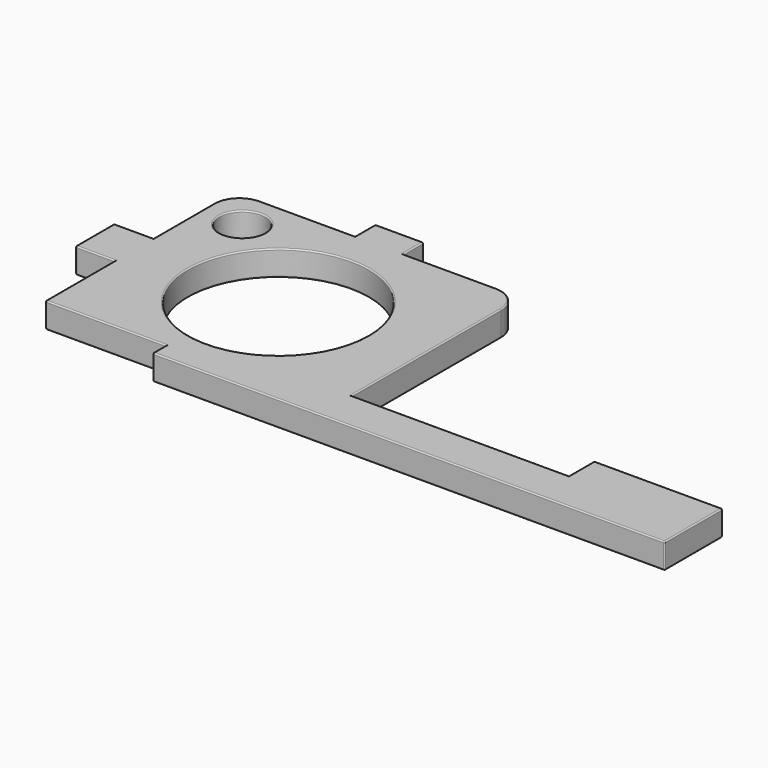
from build123d import *

# Parameters (mm, degrees)
F1_R     = 9.017
F1_R_2   = 2.286
F2_DEPTH = 2.54
F3_R     = 2.54
F4_R     = 0.127


with BuildPart() as f2:
    # F1 (on Top) → F2 (new body)
    with BuildSketch(Plane.XY):
        Polygon((16.002, 1.651), (16.002, 0), (67.183, 0), (67.183, 7.239), (54.356, 7.239), (54.356, 4.064), (32.639, 4.064), (32.639, 25.273), (20.828, 25.273), (20.828, 27.813), (16.002, 27.813), (16.002, 25.273), (3.937, 25.273), (3.937, 15.1638), (0, 15.1638), (0, 10.3378), (3.937, 10.3378), (3.937, 1.651), align=None)
        with Locations((18.288, 12.827)):
            Circle(F1_R, mode=Mode.SUBTRACT)
        with Locations((7.874, 21.336)):
            Circle(F1_R_2, mode=Mode.SUBTRACT)
    extrude(amount=F2_DEPTH)

    # F3
    f3_edges = [f2.edges().sort_by_distance(p)[0] for p in [
        (3.937, 25.273, 1.27),
        (32.639, 25.273, 1.27),
    ]]
    fillet(f3_edges, radius=F3_R)

    # F4
    f4_edges = [f2.edges().sort_by_distance(p)[0] for p in [
        (32.639, 13.3985, 2.54),
        (31.895051, 24.529051, 2.54),
        (43.4975, 4.064, 2.54),
        (25.4635, 25.273, 2.54),
        (54.356, 5.6515, 2.54),
        (20.828, 26.543, 2.54),
        (60.7695, 7.239, 2.54),
        (18.415, 27.813, 2.54),
        (67.183, 3.6195, 2.54),
        (16.002, 26.543, 2.54),
        (41.5925, 0, 2.54),
        (11.2395, 25.273, 2.54),
        (16.002, 0.8255, 2.54),
        (4.680949, 24.529051, 2.54),
        (9.9695, 1.651, 2.54),
        (3.937, 18.9484, 2.54),
        (3.937, 5.9944, 2.54),
        (1.9685, 15.1638, 2.54),
        (1.9685, 10.3378, 2.54),
        (0, 12.7508, 2.54),
        (9.271, 12.827, 2.54),
        (5.588, 21.336, 2.54),
        (32.639, 13.3985, 0),
        (31.895051, 24.529051, 0),
        (43.4975, 4.064, 0),
        (25.4635, 25.273, 0),
        (54.356, 5.6515, 0),
        (20.828, 26.543, 0),
        (60.7695, 7.239, 0),
        (18.415, 27.813, 0),
        (67.183, 3.6195, 0),
        (16.002, 26.543, 0),
        (41.5925, 0, 0),
        (11.2395, 25.273, 0),
        (16.002, 0.8255, 0),
        (4.680949, 24.529051, 0),
        (9.9695, 1.651, 0),
        (3.937, 18.9484, 0),
        (3.937, 5.9944, 0),
        (1.9685, 15.1638, 0),
        (1.9685, 10.3378, 0),
        (0, 12.7508, 0),
        (9.271, 12.827, 0),
        (5.588, 21.336, 0),
        (20.828, 27.813, 1.27),
        (16.002, 27.813, 1.27),
        (0, 15.1638, 1.27),
        (0, 10.3378, 1.27),
        (3.937, 1.651, 1.27),
        (16.002, 0, 1.27),
        (54.356, 7.239, 1.27),
        (67.183, 7.239, 1.27),
        (67.183, 0, 1.27),
    ]]
    fillet(f4_edges, radius=F4_R)


solid = f2.part
